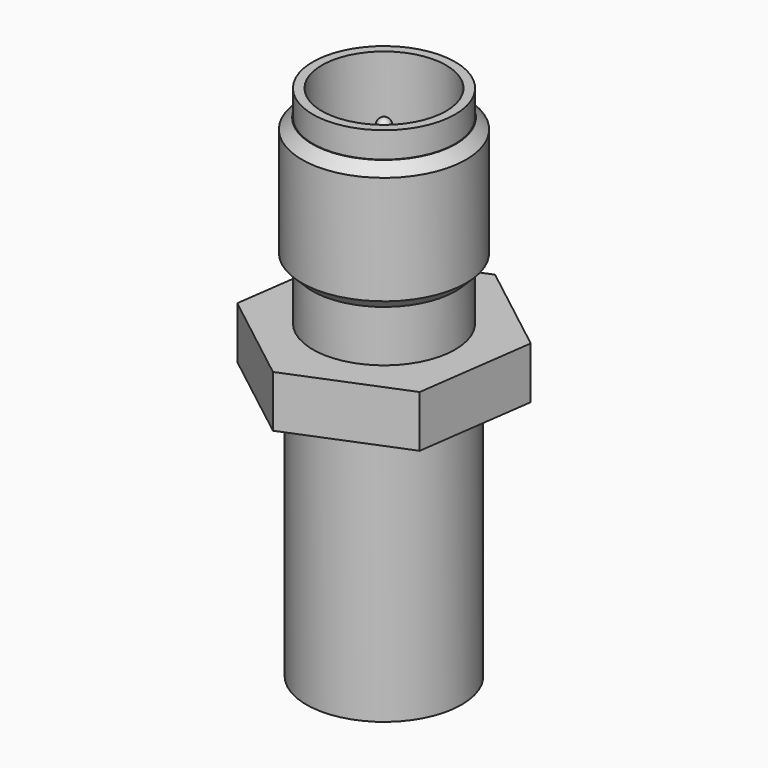
from build123d import *

# Parameters (mm, degrees)
F1_DEPTH  = 2
F2_R      = 2.75
F3_DEPTH  = 2
F4_R      = 3.175
F5_DEPTH  = 5
F6_R      = 2.75
F7_DEPTH  = 1
F8_SIZE   = 0.4
F9_SIZE   = 0.4
F10_R     = 2.4
F11_DEPTH = 5
F12_R     = 0.25
F13_DEPTH = 4
F14_R     = 0.25
F15_R     = 3
F16_DEPTH = 10
F17_R     = 2.4363080126
F18_DEPTH = 0.1


with BuildPart() as f1:
    # F0 (on Top) → F1 (new body)
    with BuildSketch(Plane.XY):
        Polygon((0.631404222, 4.5754411855), (-3.6467461891, 2.834532689), (-4.2781504111, -1.7409084964), (-0.631404222, -4.5754411855), (3.6467461891, -2.834532689), (4.2781504111, 1.7409084964), align=None)
    extrude(amount=F1_DEPTH)

    # F2 (on face) → F3 (join)
    with BuildSketch(Plane.XY.offset(2)):
        Circle(F2_R)
    extrude(amount=F3_DEPTH)

    # F4 (on face) → F5 (join)
    with BuildSketch(Plane.XY.offset(4)):
        Circle(F4_R)
    extrude(amount=F5_DEPTH)

    # F6 (on face) → F7 (join)
    with BuildSketch(Plane.XY.offset(9)):
        Circle(F6_R)
    extrude(amount=F7_DEPTH)

    # F8
    f8_edges = [f1.edges().sort_by_distance(p)[0] for p in [
        (-3.175, 0, 9),
    ]]
    chamfer(f8_edges, length=F8_SIZE)

    # F9
    f9_edges = [f1.edges().sort_by_distance(p)[0] for p in [
        (-3.175, 0, 4),
    ]]
    chamfer(f9_edges, length=F9_SIZE)

    # F10 (on face) → F11 (cut)
    with BuildSketch(Plane.XY.offset(10)):
        Circle(F10_R)
    extrude(amount=-F11_DEPTH, mode=Mode.SUBTRACT)

    # F12 (on face) → F13 (join)
    with BuildSketch(Plane.XY.offset(5)):
        Circle(F12_R)
    extrude(amount=F13_DEPTH)

    # F14
    f14_edges = [f1.edges().sort_by_distance(p)[0] for p in [
        (-0.25, 0, 9),
    ]]
    fillet(f14_edges, radius=F14_R)


with BuildPart() as f16:
    # F15 (on face) → F16 (new body)
    with BuildSketch(Plane(origin=(0, 0, 0), x_dir=(1, 0, 0), z_dir=(0, 0, -1))):
        Circle(F15_R)
    extrude(amount=F16_DEPTH)


with BuildPart() as f18:
    # F17 (on face) → F18 (new body)
    with BuildSketch(Plane.XY.offset(5)):
        Circle(F17_R)
    extrude(amount=F18_DEPTH)


solid = Compound([f1.part, f16.part, f18.part])
